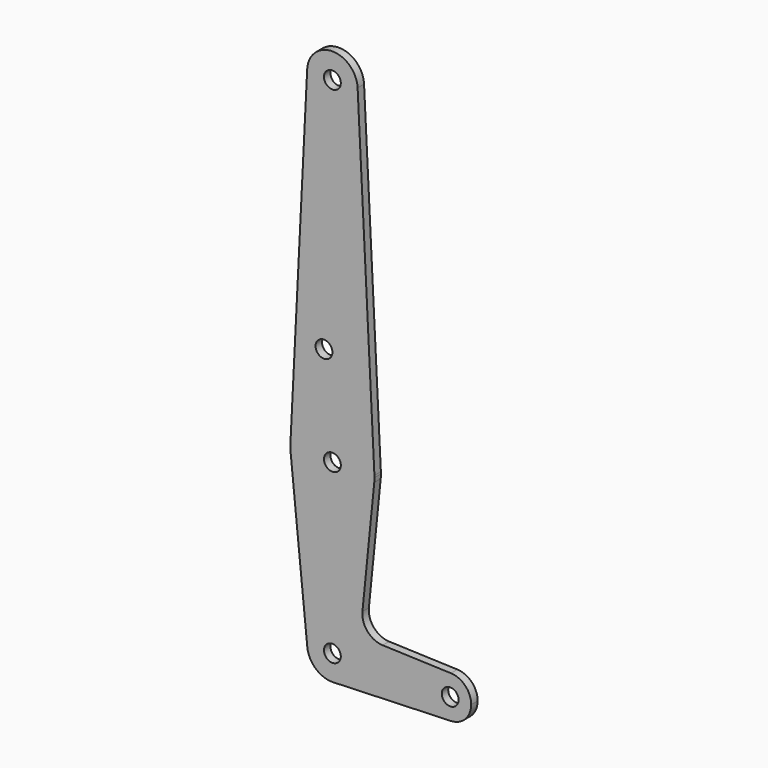
from build123d import *

# Parameters (mm, degrees)
F0_R     = 3.175
F1_DEPTH = 3.048


with BuildPart() as f1:
    # F0 (on Front) → F1 (new body)
    with BuildSketch(Plane.XZ):
        with BuildLine():
            ThreePointArc((9.525, -63.5), (-0.476848, -53.986944), (-9.477255, -64.4525))
            ThreePointArc((-9.477255, -64.4525), (-6.262383, -70.67692), (0.340179, -73.018923))
            ThreePointArc((0.340179, -73.018923), (6.854408, -70.113827), (9.525, -63.5))
        make_face()
        with Locations((0, -63.5)):
            Circle(F0_R, mode=Mode.SUBTRACT)
        with BuildLine():
            ThreePointArc((52.3875, -63.5), (50.162007, -57.988477), (44.733482, -55.567564))
            ThreePointArc((44.733482, -55.567564), (36.5125, -63.5), (44.733482, -71.432436))
            ThreePointArc((44.733482, -71.432436), (50.162007, -69.011523), (52.3875, -63.5))
        make_face()
        with Locations((44.45, -63.5)):
            Circle(F0_R, mode=Mode.SUBTRACT)
        with BuildLine():
            ThreePointArc((15.795426, -1.5875), (15.855094, -0.794747), (15.875, 0))
            ThreePointArc((15.875, 0), (15.870035, 0.396999), (15.855144, 0.79375))
            ThreePointArc((15.855144, 0.79375), (0, 15.875), (-15.855144, 0.79375))
            ThreePointArc((-15.855144, 0.79375), (-15.87001, -0.397997), (-15.795426, -1.5875))
            ThreePointArc((-15.795426, -1.5875), (0, -15.875), (15.795426, -1.5875))
        make_face()
        Circle(F0_R, mode=Mode.SUBTRACT)
        with BuildLine():
            Line((11.341187, -45.906618), (15.795426, -1.5875))
            ThreePointArc((15.795426, -1.5875), (0, -15.875), (-15.795426, -1.5875))
            Line((-15.795426, -1.5875), (-9.477255, -64.4525))
            ThreePointArc((-9.477255, -64.4525), (-0.476848, -53.986944), (9.525, -63.5))
            ThreePointArc((9.525, -63.5), (6.854408, -70.113827), (0.340179, -73.018923))
            Line((0.340179, -73.018923), (44.733482, -71.432436))
            ThreePointArc((44.733482, -71.432436), (36.5125, -63.5), (44.733482, -55.567564))
            Line((44.733482, -55.567564), (18.9676, -54.646766))
            ThreePointArc((18.9676, -54.646766), (13.2612, -51.928641), (11.341187, -45.906618))
        make_face()
        with BuildLine():
            ThreePointArc((-15.855144, 0.79375), (0, 15.875), (15.855144, 0.79375))
            Line((15.855144, 0.79375), (9.513086, 127.47625))
            ThreePointArc((9.513086, 127.47625), (9.522021, 127.238199), (9.525, 127))
            ThreePointArc((9.525, 127), (-0.238199, 117.477979), (-9.513086, 127.47625))
            Line((-9.513086, 127.47625), (-15.855144, 0.79375))
        make_face()
        with Locations((-3.175, 36.5252)):
            Circle(F0_R, mode=Mode.SUBTRACT)
        with BuildLine():
            ThreePointArc((9.525, 127), (9.522021, 127.238199), (9.513086, 127.47625))
            ThreePointArc((9.513086, 127.47625), (0, 136.525), (-9.513086, 127.47625))
            ThreePointArc((-9.513086, 127.47625), (-0.238199, 117.477979), (9.525, 127))
        make_face()
        with Locations((0, 127)):
            Circle(F0_R, mode=Mode.SUBTRACT)
    extrude(amount=F1_DEPTH)


solid = f1.part
